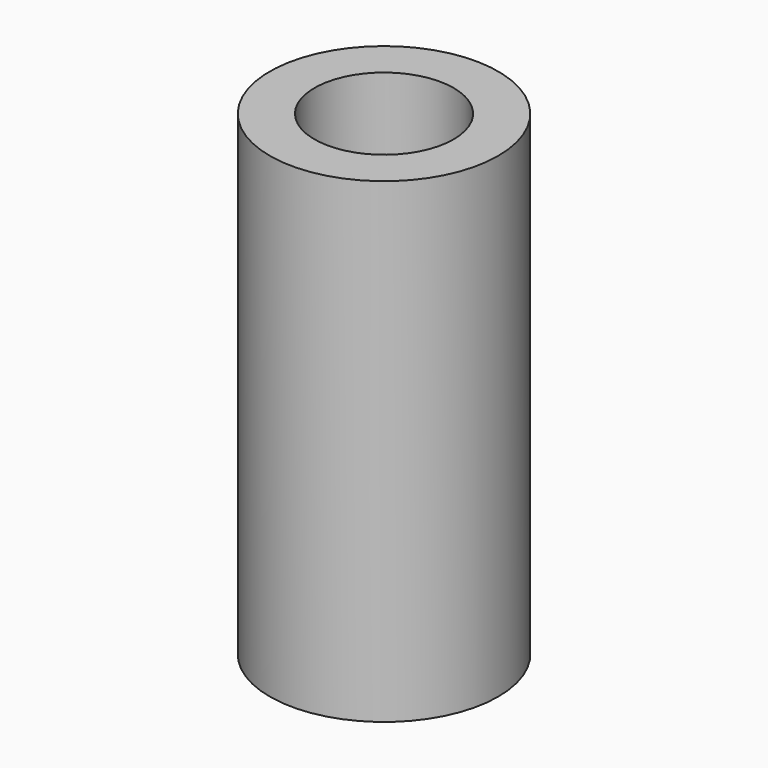
from build123d import *

# Parameters (mm, degrees)
F0_R       = 16.24144802
F0_R_2     = 15.9725551456
F1_DEPTH   = 67.6834583282
F2_R       = 9.89144802
F1_FACE1_R = 16.24144802
F3_DEPTH   = 67.6844583282


with BuildPart() as f1:
    # F0 (on Top) → F1 (new body)
    with BuildSketch(Plane.XY):
        with Locations((-20.201921463, 35.6837660074)):
            Circle(F0_R)
        with Locations((-20.201921463, 35.6837660074)):
            Circle(F0_R_2, mode=Mode.SUBTRACT)
        with Locations((-20.201921463, 35.6837660074)):
            Circle(F0_R_2)
    extrude(amount=F1_DEPTH)

    # F2 (on face) + F1_face1 (on face) → F3 (cut, through all)
    with BuildSketch(Plane.XY.offset(67.6834583282)):
        with Locations((-20.201921463, 35.6837660074)):
            Circle(F2_R)
    with BuildSketch(Plane(origin=(-20.201921463, 35.6837660074, 0), x_dir=(1, 0, 0), z_dir=(0, 0, -1))):
        Circle(F1_FACE1_R)
    extrude(amount=-F3_DEPTH, dir=(0, 0, 1), mode=Mode.SUBTRACT)


solid = f1.part
